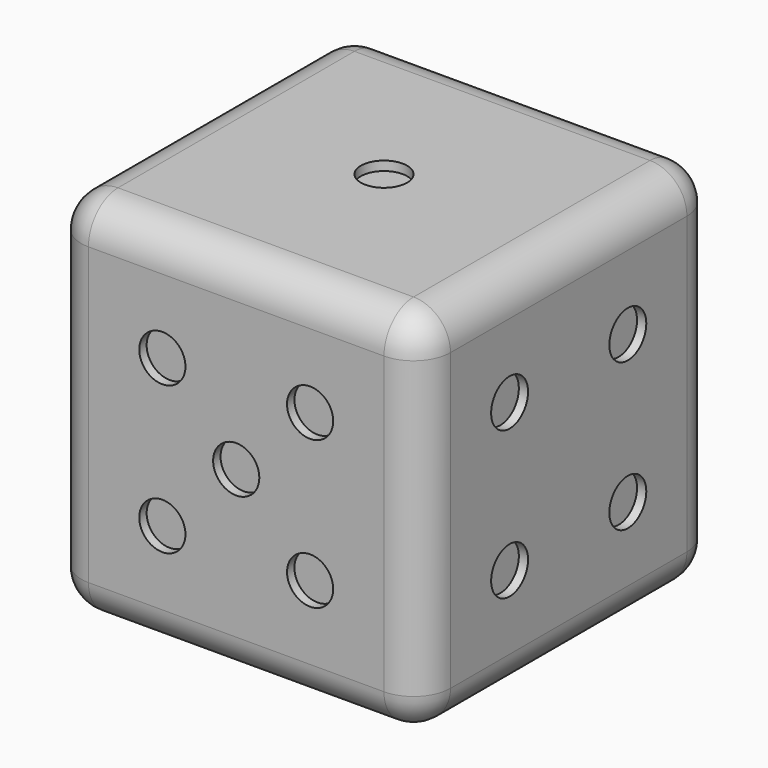
from build123d import *

# Parameters (mm, degrees)
F0_W      = 50.8
F0_H      = 50.8
F1_DEPTH  = 50.8
F2_R      = 5.08
F3_R      = 3.175
F4_DEPTH  = 1.27
F5_R      = 3.175
F6_DEPTH  = 1.27
F7_R      = 3.175
F8_DEPTH  = 1.27
F9_R      = 3.175
F10_DEPTH = 1.27
F11_R     = 3.175
F12_DEPTH = 1.27
F13_R     = 3.175
F14_DEPTH = 1.27


with BuildPart() as f1:
    # F0 (on Top) → F1 (new body)
    with BuildSketch(Plane.XY):
        with Locations((25.4, -25.4)):
            Rectangle(F0_W, F0_H)
    extrude(amount=F1_DEPTH)

    # F2
    f2_edges = [f1.edges().sort_by_distance(p)[0] for p in [
        (50.8, -50.8, 25.4),
        (50.8, -25.4, 50.8),
        (50.8, -25.4, 0),
        (25.4, -50.8, 0),
        (25.4, -50.8, 50.8),
        (0, -50.8, 25.4),
        (50.8, 0, 25.4),
        (0, 0, 25.4),
        (25.4, 0, 50.8),
        (25.4, 0, 0),
        (0, -25.4, 50.8),
        (0, -25.4, 0),
    ]]
    fillet(f2_edges, radius=F2_R)

    # F3 (on face) → F4 (cut)
    with BuildSketch(Plane.XY.offset(50.8)):
        with Locations((25.4, -25.4)):
            Circle(F3_R)
    extrude(amount=-F4_DEPTH, mode=Mode.SUBTRACT)

    # F5 (on face) → F6 (cut)
    with BuildSketch(Plane(origin=(0, 0, 0), x_dir=(1, 0, 0), z_dir=(0, 0, -1))):
        with Locations((15.24, 15.24)):
            Circle(F5_R)
        with Locations((35.56, 15.24)):
            Circle(F5_R)
        with Locations((35.56, 35.56)):
            Circle(F5_R)
        with Locations((15.24, 35.56)):
            Circle(F5_R)
        with Locations((15.24, 25.4)):
            Circle(F5_R)
        with Locations((35.56, 25.4)):
            Circle(F5_R)
    extrude(amount=-F6_DEPTH, mode=Mode.SUBTRACT)

    # F7 (on face) → F8 (cut)
    with BuildSketch(Plane.XZ.offset(50.8)):
        with Locations((25.4, 25.4)):
            Circle(F7_R)
        with BuildLine():
            ThreePointArc((38.735, 35.56), (35.56, 38.735), (32.385, 35.56))
            Line((32.385, 35.56), (38.735, 35.56))
        make_face()
        with BuildLine():
            Line((38.735, 35.56), (32.385, 35.56))
            ThreePointArc((32.385, 35.56), (35.56, 32.385), (38.735, 35.56))
        make_face()
        with Locations((35.56, 15.24)):
            Circle(F7_R)
        with Locations((15.24, 35.56)):
            Circle(F7_R)
        with Locations((15.24, 15.24)):
            Circle(F7_R)
    extrude(amount=-F8_DEPTH, mode=Mode.SUBTRACT)

    # F9 (on face) → F10 (cut)
    with BuildSketch(Plane(origin=(0, 0, 0), x_dir=(-1, 0, 0), z_dir=(0, 1, 0))):
        with Locations((-15.24, 35.56)):
            Circle(F9_R)
        with Locations((-35.56, 15.24)):
            Circle(F9_R)
    extrude(amount=-F10_DEPTH, mode=Mode.SUBTRACT)

    # F11 (on face) → F12 (cut)
    with BuildSketch(Plane(origin=(0, 0, 0), x_dir=(0, -1, 0), z_dir=(-1, 0, 0))):
        with Locations((25.4, 25.4)):
            Circle(F11_R)
        with Locations((35.56, 35.56)):
            Circle(F11_R)
        with Locations((15.24, 15.24)):
            Circle(F11_R)
    extrude(amount=-F12_DEPTH, mode=Mode.SUBTRACT)

    # F13 (on face) → F14 (cut)
    with BuildSketch(Plane.YZ.offset(50.8)):
        with Locations((-15.24, 35.56)):
            Circle(F13_R)
        with Locations((-35.56, 35.56)):
            Circle(F13_R)
        with Locations((-35.56, 15.24)):
            Circle(F13_R)
        with Locations((-15.24, 15.24)):
            Circle(F13_R)
    extrude(amount=-F14_DEPTH, mode=Mode.SUBTRACT)


solid = f1.part
